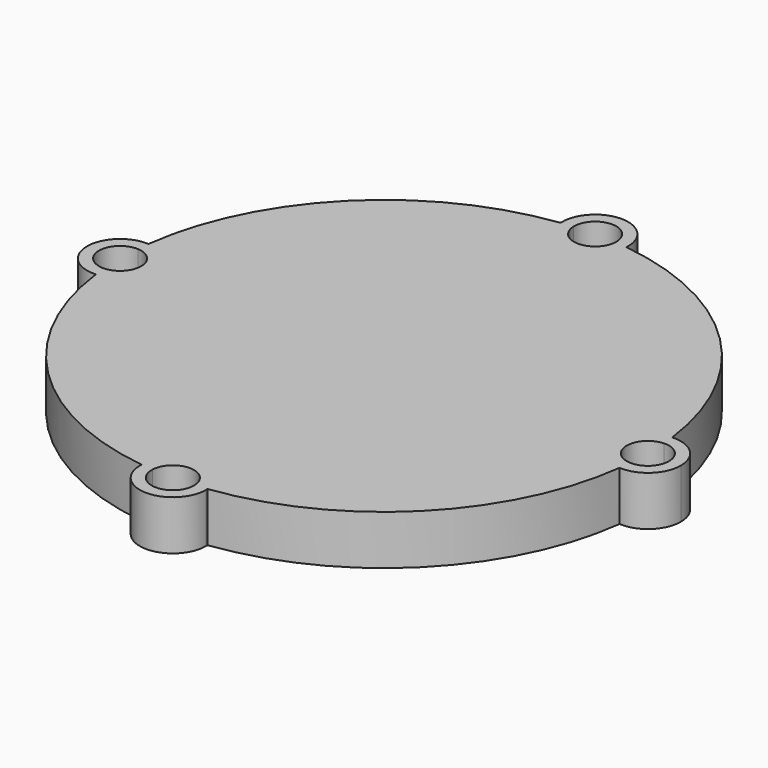
from build123d import *

# Parameters (mm, degrees)
F1_DEPTH = 7.5


with BuildPart() as f1:
    # F0 (on Top) → F1 (new body)
    with BuildSketch(Plane.XY):
        with BuildLine():
            ThreePointArc((39.872, -3.1974389752), (36.8, 0), (39.872, 3.1974389752))
            ThreePointArc((39.872, 3.1974389752), (39.7898483326, 4.0948711416), (39.6875, 4.9902248196))
            ThreePointArc((39.6875, 4.9902248196), (35, 0), (39.6875, -4.9902248196))
            ThreePointArc((39.6875, -4.9902248196), (39.7898483326, -4.0948711416), (39.872, -3.1974389752))
        make_face()
        with BuildLine():
            ThreePointArc((39.6875, 4.9902248196), (39.7898483326, 4.0948711416), (39.872, 3.1974389752))
            ThreePointArc((39.872, 3.1974389752), (42.2170250337, 2.3075528163), (43.2, 0))
            ThreePointArc((43.2, 0), (42.2170250337, -2.3075528163), (39.872, -3.1974389752))
            ThreePointArc((39.872, -3.1974389752), (39.7898483326, -4.0948711416), (39.6875, -4.9902248196))
            ThreePointArc((39.6875, -4.9902248196), (43.4232659844, -3.6443449343), (45, 0))
            ThreePointArc((45, 0), (43.4232659844, 3.6443449343), (39.6875, 4.9902248196))
        make_face()
        with BuildLine():
            ThreePointArc((39.6875, -4.9902248196), (35, 0), (39.6875, 4.9902248196))
            ThreePointArc((39.6875, 4.9902248196), (28.2842712475, 28.2842712475), (4.9902248196, 39.6875))
            ThreePointArc((4.9902248196, 39.6875), (0, 35), (-4.9902248196, 39.6875))
            ThreePointArc((-4.9902248196, 39.6875), (-28.2842712475, 28.2842712475), (-39.6875, 4.9902248196))
            ThreePointArc((-39.6875, 4.9902248196), (-36.3556550657, 3.4232659844), (-35, 0))
            ThreePointArc((-35, 0), (-36.3556550657, -3.4232659844), (-39.6875, -4.9902248196))
            ThreePointArc((-39.6875, -4.9902248196), (-28.2842712475, -28.2842712475), (-4.9902248196, -39.6875))
            ThreePointArc((-4.9902248196, -39.6875), (0, -35), (4.9902248196, -39.6875))
            ThreePointArc((4.9902248196, -39.6875), (28.2842712475, -28.2842712475), (39.6875, -4.9902248196))
        make_face()
        with BuildLine():
            ThreePointArc((-4.9902248196, 39.6875), (0, 35), (4.9902248196, 39.6875))
            ThreePointArc((4.9902248196, 39.6875), (4.0948711416, 39.7898483326), (3.1974389752, 39.872))
            ThreePointArc((3.1974389752, 39.872), (0, 36.8), (-3.1974389752, 39.872))
            ThreePointArc((-3.1974389752, 39.872), (-4.0948711416, 39.7898483326), (-4.9902248196, 39.6875))
        make_face()
        with BuildLine():
            ThreePointArc((3.1974389752, 39.872), (4.0948711416, 39.7898483326), (4.9902248196, 39.6875))
            ThreePointArc((4.9902248196, 39.6875), (4.9975556074, 39.8436735754), (5, 40))
            ThreePointArc((5, 40), (-0.1563264246, 44.9975556074), (-4.9902248196, 39.6875))
            ThreePointArc((-4.9902248196, 39.6875), (-4.0948711416, 39.7898483326), (-3.1974389752, 39.872))
            ThreePointArc((-3.1974389752, 39.872), (-0.064012809, 43.1993596797), (3.2, 40))
            ThreePointArc((3.2, 40), (3.1993596797, 39.935987191), (3.1974389752, 39.872))
        make_face()
        with BuildLine():
            ThreePointArc((5, -40), (4.9975556074, -39.8436735754), (4.9902248196, -39.6875))
            ThreePointArc((4.9902248196, -39.6875), (4.0948711416, -39.7898483326), (3.1974389752, -39.872))
            ThreePointArc((3.1974389752, -39.872), (3.1993596797, -39.935987191), (3.2, -40))
            ThreePointArc((3.2, -40), (-0.064012809, -43.1993596797), (-3.1974389752, -39.872))
            ThreePointArc((-3.1974389752, -39.872), (-4.0948711416, -39.7898483326), (-4.9902248196, -39.6875))
            ThreePointArc((-4.9902248196, -39.6875), (-0.1563264246, -44.9975556074), (5, -40))
        make_face()
        with BuildLine():
            ThreePointArc((3.1974389752, -39.872), (4.0948711416, -39.7898483326), (4.9902248196, -39.6875))
            ThreePointArc((4.9902248196, -39.6875), (0, -35), (-4.9902248196, -39.6875))
            ThreePointArc((-4.9902248196, -39.6875), (-4.0948711416, -39.7898483326), (-3.1974389752, -39.872))
            ThreePointArc((-3.1974389752, -39.872), (0, -36.8), (3.1974389752, -39.872))
        make_face()
        with BuildLine():
            ThreePointArc((-35, 0), (-36.3556550657, 3.4232659844), (-39.6875, 4.9902248196))
            ThreePointArc((-39.6875, 4.9902248196), (-39.7898483326, 4.0948711416), (-39.872, 3.1974389752))
            ThreePointArc((-39.872, 3.1974389752), (-37.6924471837, 2.2170250337), (-36.8, 0))
            ThreePointArc((-36.8, 0), (-37.6924471837, -2.2170250337), (-39.872, -3.1974389752))
            ThreePointArc((-39.872, -3.1974389752), (-39.7898483326, -4.0948711416), (-39.6875, -4.9902248196))
            ThreePointArc((-39.6875, -4.9902248196), (-36.3556550657, -3.4232659844), (-35, 0))
        make_face()
        with BuildLine():
            ThreePointArc((-39.872, 3.1974389752), (-39.7898483326, 4.0948711416), (-39.6875, 4.9902248196))
            ThreePointArc((-39.6875, 4.9902248196), (-45, 0), (-39.6875, -4.9902248196))
            ThreePointArc((-39.6875, -4.9902248196), (-39.7898483326, -4.0948711416), (-39.872, -3.1974389752))
            ThreePointArc((-39.872, -3.1974389752), (-43.2, 0), (-39.872, 3.1974389752))
        make_face()
    extrude(amount=F1_DEPTH)


solid = f1.part
